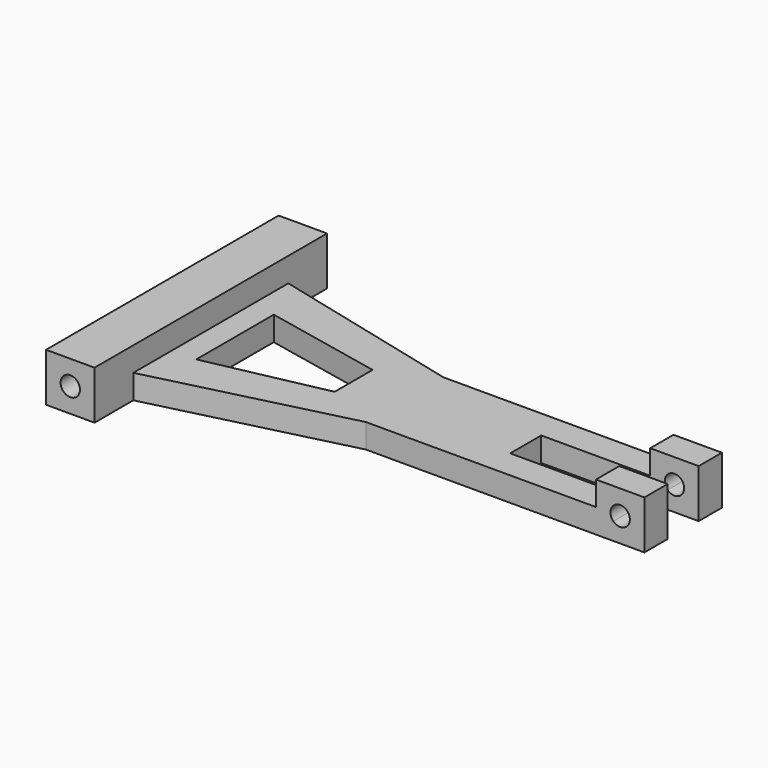
from build123d import *

# Parameters (mm, degrees)
F1_DEPTH = 12.7
F3_DEPTH = 6.35
F4_R     = 2.54
F5_DEPTH = 12.7
F7_DEPTH = 76.201
F8_R     = 2.54
F9_DEPTH = 12.7


with BuildPart() as f1:
    # F0 (on Top) → F1 (new body)
    with BuildSketch(Plane.XY):
        Polygon((-68.2625, 38.1), (-68.2625, -38.1), (-55.5625, -38.1), (-55.5625, -25.4), (-4.7625, -12.7), (68.2625, -12.7), (68.2625, -5.08), (26.9875, -5.08), (26.9875, 5.08), (68.2625, 5.08), (68.2625, 12.7), (-4.7625, 12.7), (-55.5625, 25.4), (-55.5625, 38.1), align=None)
        Polygon((-49.2125, -12.7), (-49.2125, 12.7), (-18.1300211438, 6.223735015), (-18.1300211438, -6.223735015), align=None, mode=Mode.SUBTRACT)
    extrude(amount=F1_DEPTH)

    # F2 (on face) → F3 (cut)
    with BuildSketch(Plane.XY.offset(12.7)):
        Polygon((-55.5625, 25.4), (-55.5625, -25.4), (-4.7625, -12.7), (55.5625, -12.7), (55.5625, -5.08), (26.9875, -5.08), (26.9875, 5.08), (55.5625, 5.08), (55.5625, 12.7), (-4.7625, 12.7), align=None)
        Polygon((-49.2125, -12.7), (-49.2125, 12.7), (-18.1300211438, 6.223735015), (-18.1300211438, -6.223735015), align=None, mode=Mode.SUBTRACT)
    extrude(amount=-F3_DEPTH, mode=Mode.SUBTRACT)

    # F4 (on face) → F5 (cut)
    with BuildSketch(Plane.XZ.offset(38.1)):
        with Locations((-61.9125, 6.35)):
            Circle(F4_R)
    extrude(amount=-F5_DEPTH, mode=Mode.SUBTRACT)

    # F6 (on face) → F7 (cut, through all)
    with BuildSketch(Plane.XZ.offset(38.1)):
        with BuildLine():
            Line((61.9125, 6.35), (60.1164487758, 4.5539487758))
            ThreePointArc((60.1164487758, 4.5539487758), (61.9125, 3.81), (63.7085512242, 4.5539487758))
            Line((63.7085512242, 4.5539487758), (61.9125, 6.35))
        make_face()
        with BuildLine():
            Line((61.9125, 6.35), (60.1164487758, 8.1460512242))
            ThreePointArc((60.1164487758, 8.1460512242), (59.3725, 6.35), (60.1164487758, 4.5539487758))
            Line((60.1164487758, 4.5539487758), (61.9125, 6.35))
        make_face()
        with BuildLine():
            ThreePointArc((63.7085512242, 8.1460512242), (61.9125, 8.89), (60.1164487758, 8.1460512242))
            Line((60.1164487758, 8.1460512242), (61.9125, 6.35))
            Line((61.9125, 6.35), (63.7085512242, 8.1460512242))
        make_face()
        with BuildLine():
            ThreePointArc((64.4525, 6.35), (64.2591540126, 7.3220159182), (63.7085512242, 8.1460512242))
            Line((63.7085512242, 8.1460512242), (61.9125, 6.35))
            Line((61.9125, 6.35), (63.7085512242, 4.5539487758))
            ThreePointArc((63.7085512242, 4.5539487758), (64.2591540126, 5.3779840818), (64.4525, 6.35))
        make_face()
    extrude(amount=-F7_DEPTH, mode=Mode.SUBTRACT)

    # F8 (on face) → F9 (cut)
    with BuildSketch(Plane(origin=(0, 38.1, 0), x_dir=(-1, 0, 0), z_dir=(0, 1, 0))):
        with Locations((61.9125, 6.35)):
            Circle(F8_R)
    extrude(amount=-F9_DEPTH, mode=Mode.SUBTRACT)


solid = f1.part
